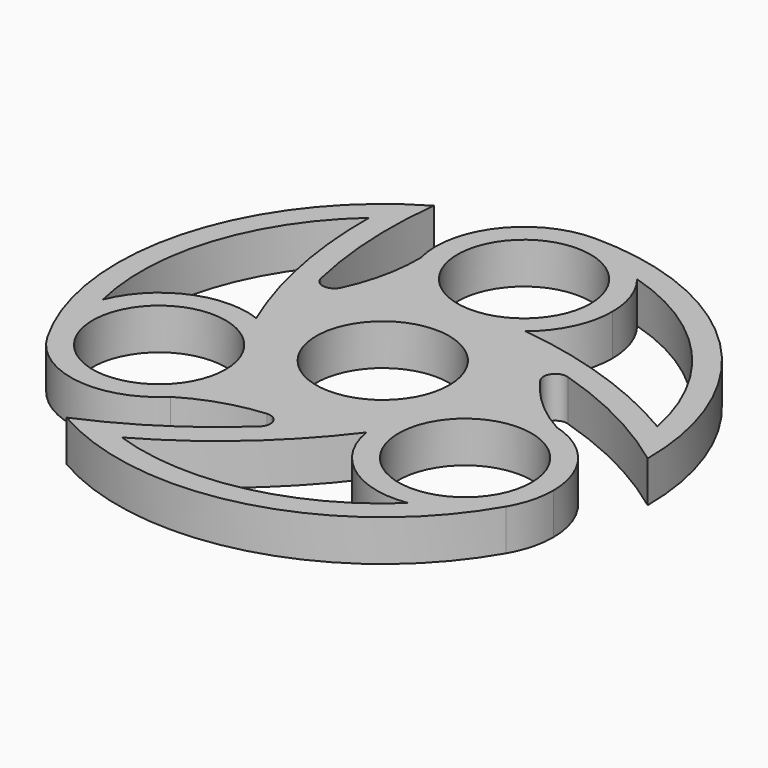
from build123d import *

# Parameters (mm, degrees)
F0_R     = 11.3
F1_DEPTH = 7


with BuildPart() as f1:
    # F0 (on Top) → F1 (new body)
    with BuildSketch(Plane.XY):
        with BuildLine():
            ThreePointArc((9.537036, 18.422222), (13.565684, 23.599045), (15, 30))
            ThreePointArc((15, 30), (14.161899, 34.943745), (11.741252, 39.335042))
            ThreePointArc((11.741252, 39.335042), (6.51822, 43.50973), (0, 45))
            ThreePointArc((0, 45), (-11.858541, 39.185587), (-14.523688, 26.25))
            ThreePointArc((-14.523688, 26.25), (-4.640603, 15.735891), (9.537036, 18.422222))
        make_face()
        with Locations((0, 30)):
            Circle(F0_R, mode=Mode.SUBTRACT)
        with BuildLine():
            ThreePointArc((0, 45), (6.51822, 43.50973), (11.741252, 39.335042))
            ThreePointArc((11.741252, 39.335042), (30.369257, 27.619028), (40.269695, 7.965812))
            ThreePointArc((40.269695, 7.965812), (25.446252, 14.789627), (9.537036, 18.422222))
            ThreePointArc((9.537036, 18.422222), (-4.640603, 15.735891), (-14.523688, 26.25))
            ThreePointArc((-14.523688, 26.25), (-15.188129, 19.400685), (-17.395833, 12.882968))
            ThreePointArc((-17.395833, 12.882968), (-19.42048, 11.749377), (-21.153765, 13.292085))
            ThreePointArc((-21.153765, 13.292085), (-22.935622, 26.073488), (-22.5, 38.971143))
            ThreePointArc((-22.5, 38.971143), (-43.466662, 11.646857), (-38.971143, -22.5))
            ThreePointArc((-38.971143, -22.5), (-40.939642, -16.109921), (-39.935771, -9.499298))
            ThreePointArc((-39.935771, -9.499298), (-39.103409, 12.491034), (-27.033443, 30.891673))
            ThreePointArc((-27.033443, 30.891673), (-25.531318, 14.642287), (-20.722631, -0.951795))
            ThreePointArc((-20.722631, -0.951795), (-13.65453, -6.452251), (-10.980762, -15))
            ThreePointArc((-10.980762, -15), (-12.148886, -20.803379), (-15.471323, -25.702882))
            ThreePointArc((-15.471323, -25.702882), (-9.207422, -22.853648), (-2.459061, -21.506718))
            ThreePointArc((-2.459061, -21.506718), (-0.465019, -22.693318), (-0.9344, -24.965741))
            ThreePointArc((-0.9344, -24.965741), (-11.112492, -32.899575), (-22.5, -38.971143))
            ThreePointArc((-22.5, -38.971143), (11.646857, -43.466662), (38.971143, -22.5))
            ThreePointArc((38.971143, -22.5), (34.421422, -27.399809), (28.194519, -29.835743))
            ThreePointArc((28.194519, -29.835743), (8.734151, -40.110062), (-13.236251, -38.857485))
            ThreePointArc((-13.236251, -38.857485), (0.085066, -29.431914), (11.185594, -17.470427))
            ThreePointArc((11.185594, -17.470427), (15.947983, -3.849065), (29.995011, -0.547118))
            ThreePointArc((29.995011, -0.547118), (24.395551, 3.452963), (19.854894, 8.623749))
            ThreePointArc((19.854894, 8.623749), (19.885499, 10.943941), (22.088166, 11.673656))
            ThreePointArc((22.088166, 11.673656), (34.048114, 6.826087), (45, 0))
            ThreePointArc((45, 0), (31.819805, 31.819805), (0, 45))
        make_face()
        Circle(F0_R, mode=Mode.SUBTRACT)
        with BuildLine():
            ThreePointArc((40.980762, -15), (37.922574, -5.922934), (29.995011, -0.547118))
            ThreePointArc((29.995011, -0.547118), (15.947983, -3.849065), (11.185594, -17.470427))
            ThreePointArc((11.185594, -17.470427), (17.160431, -27.132673), (28.194519, -29.835743))
            ThreePointArc((28.194519, -29.835743), (34.421422, -27.399809), (38.971143, -22.5))
            ThreePointArc((38.971143, -22.5), (40.46965, -18.882286), (40.980762, -15))
        make_face()
        with Locations((25.980762, -15)):
            Circle(F0_R, mode=Mode.SUBTRACT)
        with BuildLine():
            ThreePointArc((-39.935771, -9.499298), (-40.939642, -16.109921), (-38.971143, -22.5))
            ThreePointArc((-38.971143, -22.5), (-28.006443, -29.862591), (-15.471323, -25.702882))
            ThreePointArc((-15.471323, -25.702882), (-12.148886, -20.803379), (-10.980762, -15))
            ThreePointArc((-10.980762, -15), (-13.65453, -6.452251), (-20.722631, -0.951795))
            ThreePointArc((-20.722631, -0.951795), (-32.0778, -1.295033), (-39.935771, -9.499298))
        make_face()
        with Locations((-25.980762, -15)):
            Circle(F0_R, mode=Mode.SUBTRACT)
    extrude(amount=F1_DEPTH)


solid = f1.part
